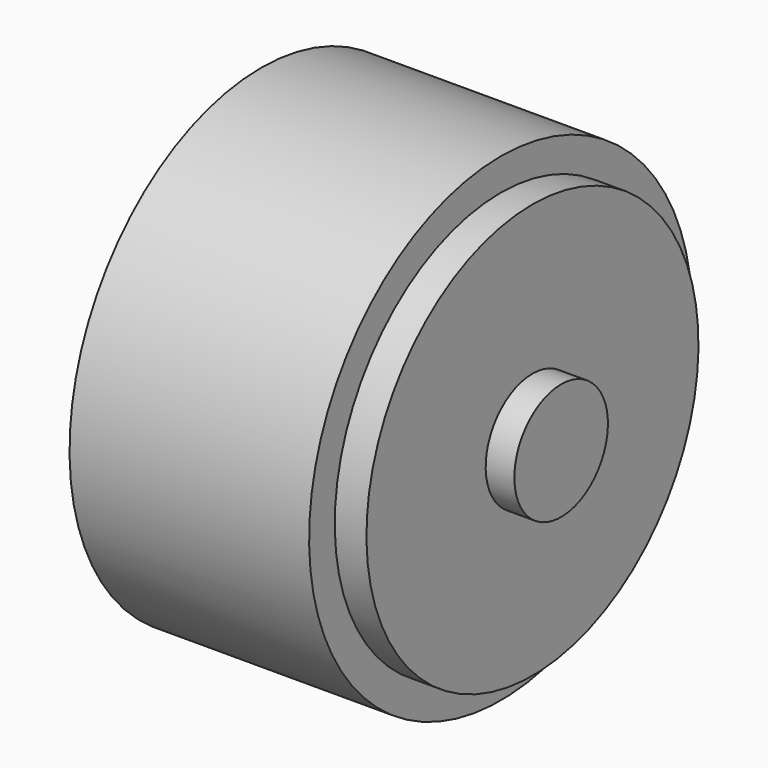
from build123d import *


with BuildPart() as f1:
    # F0 (on Front) → F1 (revolve)
    with BuildSketch(Plane.XZ):
        Polygon((-18.26, 0), (0, 0), (0, 3.1), (-1.52, 3.1), (-1.52, 11), (-3.2, 11), (-3.2, 5.555), (-15.9, 5.555), (-15.9, 5.23), (-16.66, 5.23), (-16.66, 5.555), (-17.27, 5.555), (-18.26, 4.565), align=None)
    revolve(axis=Axis((-9.13, 0, 0), (1, 0, 0)))


with BuildPart() as f2:
    # F0 (on Front) → F2 (revolve)
    with BuildSketch(Plane.XZ):
        Polygon((-3.2, 5.555), (-3.2, 11), (-3.2, 12.7), (-15.9, 12.7), (-15.9, 5.555), align=None)
    revolve(axis=Axis((-9.13, 0, 0), (1, 0, 0)))


solid = Compound([f1.part, f2.part])
